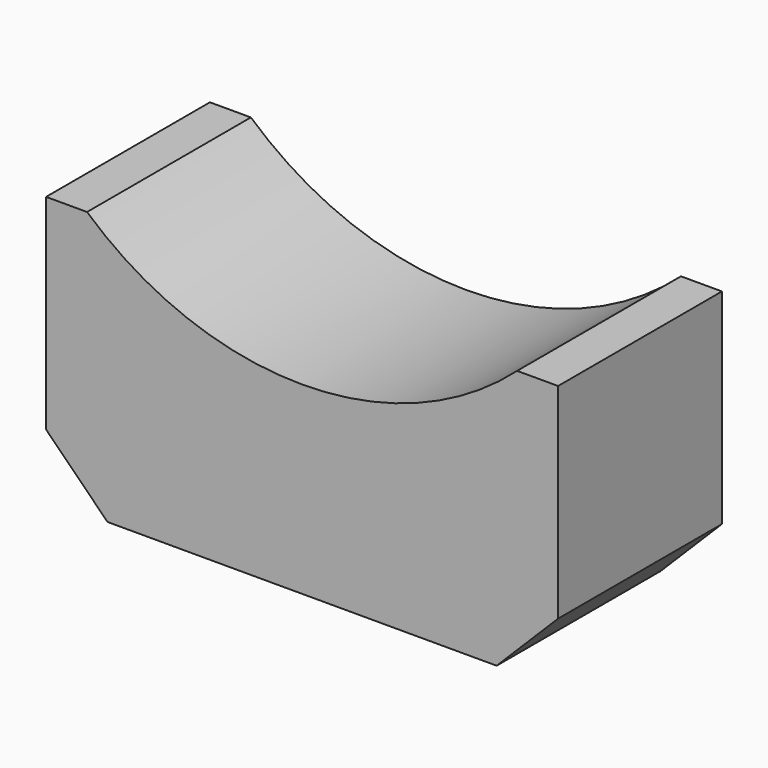
from build123d import *

# Parameters (mm, degrees)
F1_DEPTH = 10
F2_SIZE  = 3
F3_SIZE  = 3


with BuildPart() as f1:
    # F0 (on Front) → F1 (new body)
    with BuildSketch(Plane.XZ):
        with BuildLine():
            Line((2, 13), (0, 13))
            Line((0, 13), (0, 0))
            Line((0, 0), (25, 0))
            Line((25, 0), (25, 13))
            Line((25, 13), (23, 13))
            ThreePointArc((23, 13), (12.5, 9), (2, 13))
        make_face()
    extrude(amount=F1_DEPTH)

    # F2
    f2_edges = [f1.edges().sort_by_distance(p)[0] for p in [
        (25, -5, 0),
    ]]
    chamfer(f2_edges, length=F2_SIZE)

    # F3
    f3_edges = [f1.edges().sort_by_distance(p)[0] for p in [
        (0, -5, 0),
    ]]
    chamfer(f3_edges, length=F3_SIZE)


solid = f1.part
